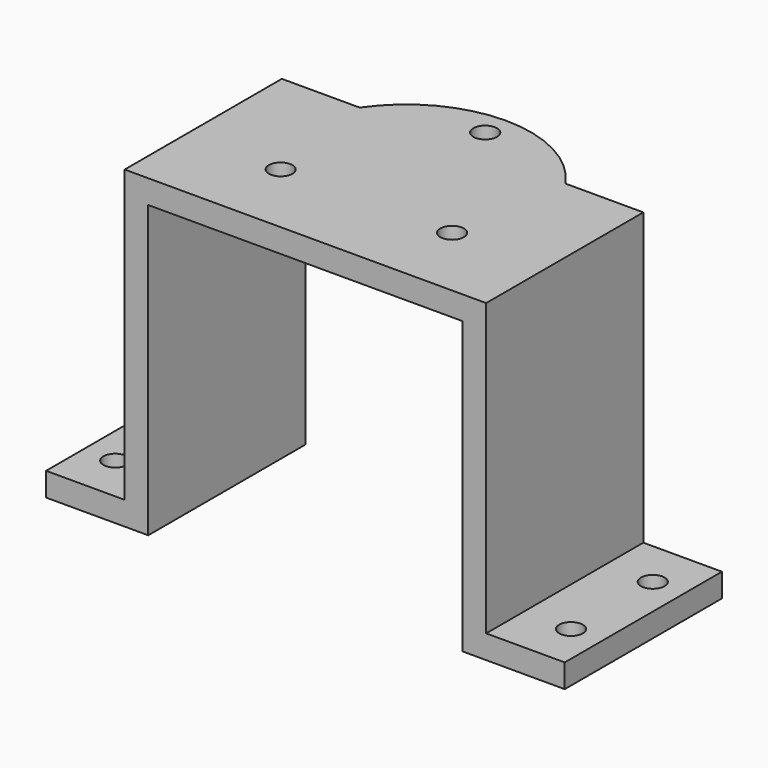
from build123d import *

# Parameters (mm, degrees)
SKETCH_R      = 1.5
PAD_DEPTH     = 40
SKETCH001_W   = 10
SKETCH001_H   = 37
SKETCH001_W_2 = 40
POCKET_DEPTH  = 31.890025


with BuildPart() as part:
    # Sketch → Pad (new body)
    with BuildSketch(Plane.XY):
        with BuildLine():
            Line((0, 25), (19.905684, 25))
            ThreePointArc((46.094316, 25), (33, 31.889025), (19.905684, 25))
            Line((66, 25), (46.094316, 25))
            Line((66, 0), (66, 25))
            Line((0, 0), (66, 0))
            Line((0, 25), (0, 0))
        make_face()
        with Locations((33, 28.6)):
            Circle(SKETCH_R, mode=Mode.SUBTRACT)
        with Locations((43.91192, 9.7)):
            Circle(SKETCH_R, mode=Mode.SUBTRACT)
        with Locations((22.08808, 9.7)):
            Circle(SKETCH_R, mode=Mode.SUBTRACT)
        with Locations((4, 19)):
            Circle(SKETCH_R, mode=Mode.SUBTRACT)
        with Locations((4, 6)):
            Circle(SKETCH_R, mode=Mode.SUBTRACT)
        with Locations((62, 19)):
            Circle(SKETCH_R, mode=Mode.SUBTRACT)
        with Locations((62, 6)):
            Circle(SKETCH_R, mode=Mode.SUBTRACT)
    extrude(amount=PAD_DEPTH)

    # Sketch001 → Pocket (cut, through all)
    with BuildSketch(Plane.XZ):
        with Locations((5, 21.5)):
            Rectangle(SKETCH001_W, SKETCH001_H)
        with Locations((33, 18.5)):
            Rectangle(SKETCH001_W_2, SKETCH001_H)
        with Locations((61, 21.5)):
            Rectangle(SKETCH001_W, SKETCH001_H)
    extrude(amount=-POCKET_DEPTH, mode=Mode.SUBTRACT)


solid = part.part
